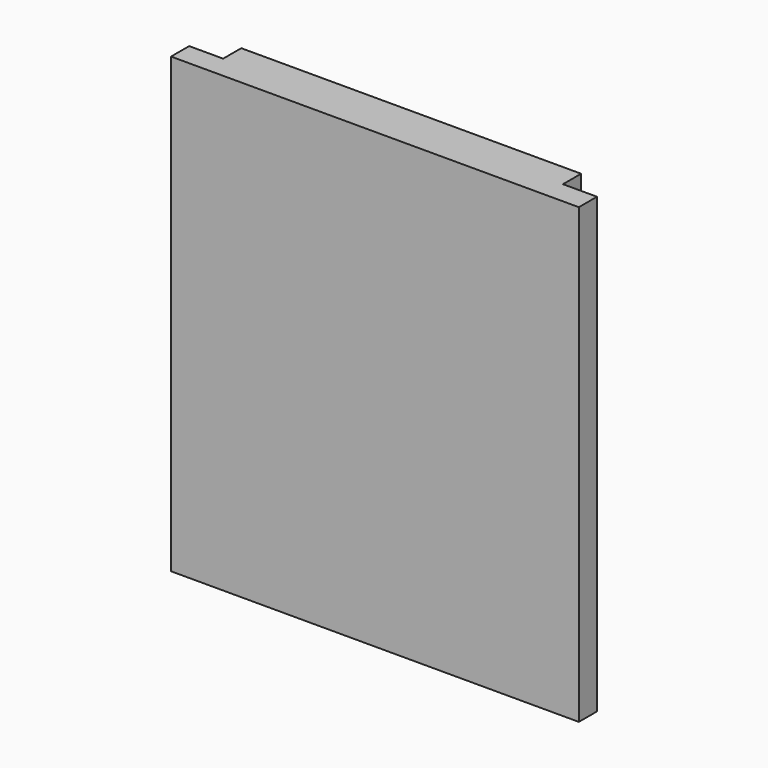
from build123d import *

# Parameters (mm, degrees)
F0_W     = 228.6
F0_H     = 254
F1_DEPTH = 25.4
F2_W     = 19.05
F2_H     = 12.7
F3_DEPTH = 254


with BuildPart() as f1:
    # F0 (on Front) → F1 (new body)
    with BuildSketch(Plane.XZ):
        Rectangle(F0_W, F0_H)
        Rectangle(F0_W, F0_H)
        Rectangle(F0_W, F0_H)
    extrude(amount=F1_DEPTH)

    # F2 (on face) → F3 (cut)
    with BuildSketch(Plane.XY.offset(127)):
        with Locations((-104.775, -6.35)):
            Rectangle(F2_W, F2_H)
        with Locations((104.775, -6.35)):
            Rectangle(F2_W, F2_H)
    extrude(amount=-F3_DEPTH, mode=Mode.SUBTRACT)


solid = f1.part
